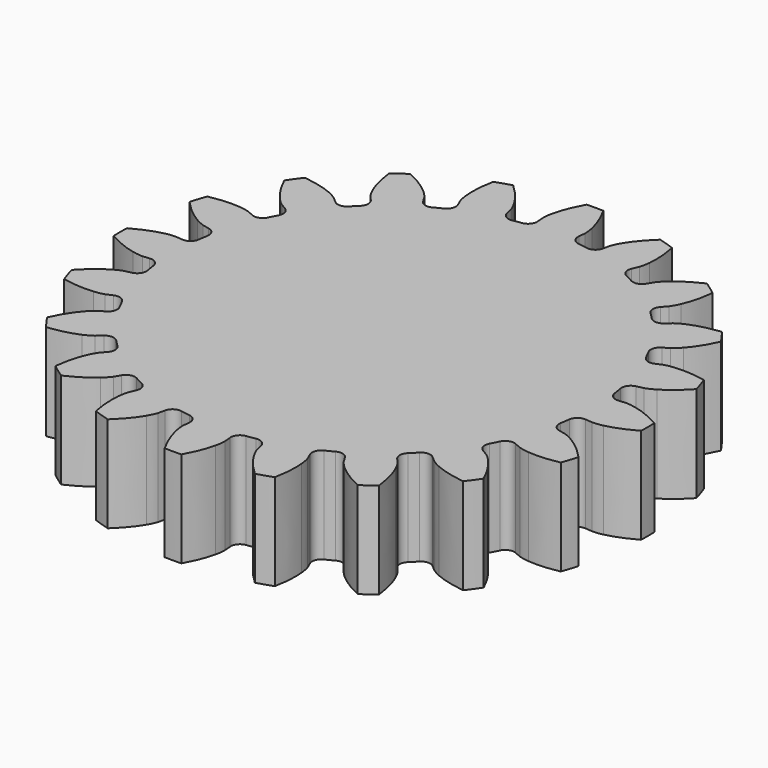
from build123d import *

# Parameters (mm, degrees)
PAD_DEPTH = 10


with BuildPart() as part:
    # InvoluteGear → Pad (new body)
    with BuildSketch(Plane.XY):
        with BuildLine():
            Line((22.725421, -2.129761), (23.434636, -2.194343))
            add(Edge.make_bspline(
                [(23.434636, -2.194343), (23.552721, -2.198117), (23.908158, -2.19505), (24.50119, -2.06665)],
                knots=[0, 0, 0, 0, 1, 1, 1, 1], degree=3))
            add(Edge.make_bspline(
                [(24.50119, -2.06665), (25.210586, -1.910694), (26.231456, -1.576838), (27.489054, -0.867419)],
                knots=[0, 0, 0, 0, 1, 1, 1, 1], degree=3))
            ThreePointArc((27.489054, -0.867419), (27.501369, 0.00054), (27.486284, 0.868456))
            add(Edge.make_bspline(
                [(27.486284, 0.868456), (26.231456, 1.576838), (25.210586, 1.910694), (24.50119, 2.06665)],
                knots=[0, 0, 0, 0, 1, 1, 1, 1], degree=3))
            add(Edge.make_bspline(
                [(24.50119, 2.06665), (23.908158, 2.19505), (23.552721, 2.198117), (23.434636, 2.194343)],
                knots=[0, 0, 0, 0, 1, 1, 1, 1], degree=3))
            Line((23.434636, 2.194343), (22.725421, 2.129761))
            ThreePointArc((22.725421, 2.129761), (22.034333, 2.323322), (21.675845, 2.945057))
            ThreePointArc((21.675845, 2.945057), (21.605682, 3.422004), (21.525026, 3.897289))
            ThreePointArc((21.525026, 3.897289), (21.673842, 4.599373), (22.271292, 4.997018))
            Line((22.271292, 4.997018), (22.965753, 5.154757))
            add(Edge.make_bspline(
                [(22.965753, 5.154757), (23.079224, 5.187658), (23.416317, 5.300411), (23.940647, 5.605783)],
                knots=[0, 0, 0, 0, 1, 1, 1, 1], degree=3))
            add(Edge.make_bspline(
                [(23.940647, 5.605783), (24.567129, 5.973321), (25.434867, 6.606304), (26.411691, 7.66962)],
                knots=[0, 0, 0, 0, 1, 1, 1, 1], degree=3))
            ThreePointArc((26.411691, 7.66962), (26.155189, 8.498904), (25.872642, 9.319679))
            add(Edge.make_bspline(
                [(25.872642, 9.319679), (24.460327, 9.605627), (23.386255, 9.607678), (22.663387, 9.536785)],
                knots=[0, 0, 0, 0, 1, 1, 1, 1], degree=3))
            add(Edge.make_bspline(
                [(22.663387, 9.536785), (22.059702, 9.475643), (21.720713, 9.368724), (21.609574, 9.328645)],
                knots=[0, 0, 0, 0, 1, 1, 1, 1], degree=3))
            Line((21.609574, 9.328645), (20.955027, 9.048064))
            ThreePointArc((20.955027, 9.048064), (20.23795, 9.018594), (19.704881, 9.49912))
            ThreePointArc((19.704881, 9.49912), (19.490768, 9.931042), (19.267188, 10.358141))
            ThreePointArc((19.267188, 10.358141), (19.191764, 11.071849), (19.637094, 11.634654))
            Line((19.637094, 11.634654), (20.248821, 11.999273))
            add(Edge.make_bspline(
                [(20.248821, 11.999273), (20.346572, 12.065628), (20.632324, 12.27703), (21.036626, 12.729483)],
                knots=[0, 0, 0, 0, 1, 1, 1, 1], degree=3))
            add(Edge.make_bspline(
                [(21.036626, 12.729483), (21.51887, 13.272627), (22.148536, 14.142774), (22.748967, 15.455904)],
                knots=[0, 0, 0, 0, 1, 1, 1, 1], degree=3))
            ThreePointArc((22.748967, 15.455904), (22.248757, 16.165336), (21.726405, 16.858627))
            add(Edge.make_bspline(
                [(21.726405, 16.858627), (20.294852, 16.694151), (19.272715, 16.364195), (18.607133, 16.073393)],
                knots=[0, 0, 0, 0, 1, 1, 1, 1], degree=3))
            add(Edge.make_bspline(
                [(18.607133, 16.073393), (18.051888, 15.828695), (17.762531, 15.622256), (17.669217, 15.549794)],
                knots=[0, 0, 0, 0, 1, 1, 1, 1], degree=3))
            Line((17.669217, 15.549794), (17.133409, 15.08068))
            ThreePointArc((17.133409, 15.08068), (16.460536, 14.831063), (15.805066, 15.123343))
            ThreePointArc((15.805066, 15.123343), (15.467961, 15.467961), (15.123343, 15.805066))
            ThreePointArc((15.123343, 15.805066), (14.831063, 16.460536), (15.08068, 17.133409))
            Line((15.08068, 17.133409), (15.549794, 17.669217))
            add(Edge.make_bspline(
                [(15.549794, 17.669217), (15.622256, 17.762531), (15.828695, 18.051888), (16.073393, 18.607133)],
                knots=[0, 0, 0, 0, 1, 1, 1, 1], degree=3))
            add(Edge.make_bspline(
                [(16.073393, 18.607133), (16.364195, 19.272715), (16.694151, 20.294852), (16.859417, 21.729256)],
                knots=[0, 0, 0, 0, 1, 1, 1, 1], degree=3))
            ThreePointArc((16.859417, 21.729256), (16.164462, 22.249392), (15.453437, 22.747336))
            add(Edge.make_bspline(
                [(15.453437, 22.747336), (14.142774, 22.148536), (13.272627, 21.51887), (12.729483, 21.036626)],
                knots=[0, 0, 0, 0, 1, 1, 1, 1], degree=3))
            add(Edge.make_bspline(
                [(12.729483, 21.036626), (12.27703, 20.632324), (12.065628, 20.346572), (11.999273, 20.248821)],
                knots=[0, 0, 0, 0, 1, 1, 1, 1], degree=3))
            Line((11.999273, 20.248821), (11.634654, 19.637094))
            ThreePointArc((11.634654, 19.637094), (11.071849, 19.191764), (10.358141, 19.267188))
            ThreePointArc((10.358141, 19.267188), (9.931042, 19.490768), (9.49912, 19.704881))
            ThreePointArc((9.49912, 19.704881), (9.018594, 20.23795), (9.048064, 20.955027))
            Line((9.048064, 20.955027), (9.328645, 21.609574))
            add(Edge.make_bspline(
                [(9.328645, 21.609574), (9.368724, 21.720713), (9.475643, 22.059702), (9.536785, 22.663387)],
                knots=[0, 0, 0, 0, 1, 1, 1, 1], degree=3))
            add(Edge.make_bspline(
                [(9.536785, 22.663387), (9.607678, 23.386255), (9.605627, 24.460327), (9.319549, 25.875596)],
                knots=[0, 0, 0, 0, 1, 1, 1, 1], degree=3))
            ThreePointArc((9.319549, 25.875596), (8.497876, 26.155523), (7.667778, 26.409377))
            add(Edge.make_bspline(
                [(7.667778, 26.409377), (6.606304, 25.434867), (5.973321, 24.567129), (5.605783, 23.940647)],
                knots=[0, 0, 0, 0, 1, 1, 1, 1], degree=3))
            add(Edge.make_bspline(
                [(5.605783, 23.940647), (5.300411, 23.416317), (5.187658, 23.079224), (5.154757, 22.965753)],
                knots=[0, 0, 0, 0, 1, 1, 1, 1], degree=3))
            Line((5.154757, 22.965753), (4.997018, 22.271292))
            ThreePointArc((4.997018, 22.271292), (4.599373, 21.673842), (3.897289, 21.525026))
            ThreePointArc((3.897289, 21.525026), (3.422004, 21.605682), (2.945057, 21.675845))
            ThreePointArc((2.945057, 21.675845), (2.323322, 22.034333), (2.129761, 22.725421))
            Line((2.129761, 22.725421), (2.194343, 23.434636))
            add(Edge.make_bspline(
                [(2.194343, 23.434636), (2.198117, 23.552721), (2.19505, 23.908158), (2.06665, 24.50119)],
                knots=[0, 0, 0, 0, 1, 1, 1, 1], degree=3))
            add(Edge.make_bspline(
                [(2.06665, 24.50119), (1.910694, 25.210586), (1.576838, 26.231456), (0.867419, 27.489054)],
                knots=[0, 0, 0, 0, 1, 1, 1, 1], degree=3))
            ThreePointArc((0.867419, 27.489054), (-0.00054, 27.501369), (-0.868456, 27.486284))
            add(Edge.make_bspline(
                [(-0.868456, 27.486284), (-1.576838, 26.231456), (-1.910694, 25.210586), (-2.06665, 24.50119)],
                knots=[0, 0, 0, 0, 1, 1, 1, 1], degree=3))
            add(Edge.make_bspline(
                [(-2.06665, 24.50119), (-2.19505, 23.908158), (-2.198117, 23.552721), (-2.194343, 23.434636)],
                knots=[0, 0, 0, 0, 1, 1, 1, 1], degree=3))
            Line((-2.194343, 23.434636), (-2.129761, 22.725421))
            ThreePointArc((-2.129761, 22.725421), (-2.323322, 22.034333), (-2.945057, 21.675845))
            ThreePointArc((-2.945057, 21.675845), (-3.422004, 21.605682), (-3.897289, 21.525026))
            ThreePointArc((-3.897289, 21.525026), (-4.599373, 21.673842), (-4.997018, 22.271292))
            Line((-4.997018, 22.271292), (-5.154757, 22.965753))
            add(Edge.make_bspline(
                [(-5.154757, 22.965753), (-5.187658, 23.079224), (-5.300411, 23.416317), (-5.605783, 23.940647)],
                knots=[0, 0, 0, 0, 1, 1, 1, 1], degree=3))
            add(Edge.make_bspline(
                [(-5.605783, 23.940647), (-5.973321, 24.567129), (-6.606304, 25.434867), (-7.66962, 26.411691)],
                knots=[0, 0, 0, 0, 1, 1, 1, 1], degree=3))
            ThreePointArc((-7.66962, 26.411691), (-8.498904, 26.155189), (-9.319679, 25.872642))
            add(Edge.make_bspline(
                [(-9.319679, 25.872642), (-9.605627, 24.460327), (-9.607678, 23.386255), (-9.536785, 22.663387)],
                knots=[0, 0, 0, 0, 1, 1, 1, 1], degree=3))
            add(Edge.make_bspline(
                [(-9.536785, 22.663387), (-9.475643, 22.059702), (-9.368724, 21.720713), (-9.328645, 21.609574)],
                knots=[0, 0, 0, 0, 1, 1, 1, 1], degree=3))
            Line((-9.328645, 21.609574), (-9.048064, 20.955027))
            ThreePointArc((-9.048064, 20.955027), (-9.018594, 20.23795), (-9.49912, 19.704881))
            ThreePointArc((-9.49912, 19.704881), (-9.931042, 19.490768), (-10.358141, 19.267188))
            ThreePointArc((-10.358141, 19.267188), (-11.071849, 19.191764), (-11.634654, 19.637094))
            Line((-11.634654, 19.637094), (-11.999273, 20.248821))
            add(Edge.make_bspline(
                [(-11.999273, 20.248821), (-12.065628, 20.346572), (-12.27703, 20.632324), (-12.729483, 21.036626)],
                knots=[0, 0, 0, 0, 1, 1, 1, 1], degree=3))
            add(Edge.make_bspline(
                [(-12.729483, 21.036626), (-13.272627, 21.51887), (-14.142774, 22.148536), (-15.455904, 22.748967)],
                knots=[0, 0, 0, 0, 1, 1, 1, 1], degree=3))
            ThreePointArc((-15.455904, 22.748967), (-16.165336, 22.248757), (-16.858627, 21.726405))
            add(Edge.make_bspline(
                [(-16.858627, 21.726405), (-16.694151, 20.294852), (-16.364195, 19.272715), (-16.073393, 18.607133)],
                knots=[0, 0, 0, 0, 1, 1, 1, 1], degree=3))
            add(Edge.make_bspline(
                [(-16.073393, 18.607133), (-15.828695, 18.051888), (-15.622256, 17.762531), (-15.549794, 17.669217)],
                knots=[0, 0, 0, 0, 1, 1, 1, 1], degree=3))
            Line((-15.549794, 17.669217), (-15.08068, 17.133409))
            ThreePointArc((-15.08068, 17.133409), (-14.831063, 16.460536), (-15.123343, 15.805066))
            ThreePointArc((-15.123343, 15.805066), (-15.467961, 15.467961), (-15.805066, 15.123343))
            ThreePointArc((-15.805066, 15.123343), (-16.460536, 14.831063), (-17.133409, 15.08068))
            Line((-17.133409, 15.08068), (-17.669217, 15.549794))
            add(Edge.make_bspline(
                [(-17.669217, 15.549794), (-17.762531, 15.622256), (-18.051888, 15.828695), (-18.607133, 16.073393)],
                knots=[0, 0, 0, 0, 1, 1, 1, 1], degree=3))
            add(Edge.make_bspline(
                [(-18.607133, 16.073393), (-19.272715, 16.364195), (-20.294852, 16.694151), (-21.729256, 16.859417)],
                knots=[0, 0, 0, 0, 1, 1, 1, 1], degree=3))
            ThreePointArc((-21.729256, 16.859417), (-22.249392, 16.164462), (-22.747336, 15.453437))
            add(Edge.make_bspline(
                [(-22.747336, 15.453437), (-22.148536, 14.142774), (-21.51887, 13.272627), (-21.036626, 12.729483)],
                knots=[0, 0, 0, 0, 1, 1, 1, 1], degree=3))
            add(Edge.make_bspline(
                [(-21.036626, 12.729483), (-20.632324, 12.27703), (-20.346572, 12.065628), (-20.248821, 11.999273)],
                knots=[0, 0, 0, 0, 1, 1, 1, 1], degree=3))
            Line((-20.248821, 11.999273), (-19.637094, 11.634654))
            ThreePointArc((-19.637094, 11.634654), (-19.191764, 11.071849), (-19.267188, 10.358141))
            ThreePointArc((-19.267188, 10.358141), (-19.490768, 9.931042), (-19.704881, 9.49912))
            ThreePointArc((-19.704881, 9.49912), (-20.23795, 9.018594), (-20.955027, 9.048064))
            Line((-20.955027, 9.048064), (-21.609574, 9.328645))
            add(Edge.make_bspline(
                [(-21.609574, 9.328645), (-21.720713, 9.368724), (-22.059702, 9.475643), (-22.663387, 9.536785)],
                knots=[0, 0, 0, 0, 1, 1, 1, 1], degree=3))
            add(Edge.make_bspline(
                [(-22.663387, 9.536785), (-23.386255, 9.607678), (-24.460327, 9.605627), (-25.875596, 9.319549)],
                knots=[0, 0, 0, 0, 1, 1, 1, 1], degree=3))
            ThreePointArc((-25.875596, 9.319549), (-26.155523, 8.497876), (-26.409377, 7.667778))
            add(Edge.make_bspline(
                [(-26.409377, 7.667778), (-25.434867, 6.606304), (-24.567129, 5.973321), (-23.940647, 5.605783)],
                knots=[0, 0, 0, 0, 1, 1, 1, 1], degree=3))
            add(Edge.make_bspline(
                [(-23.940647, 5.605783), (-23.416317, 5.300411), (-23.079224, 5.187658), (-22.965753, 5.154757)],
                knots=[0, 0, 0, 0, 1, 1, 1, 1], degree=3))
            Line((-22.965753, 5.154757), (-22.271292, 4.997018))
            ThreePointArc((-22.271292, 4.997018), (-21.673842, 4.599373), (-21.525026, 3.897289))
            ThreePointArc((-21.525026, 3.897289), (-21.605682, 3.422004), (-21.675845, 2.945057))
            ThreePointArc((-21.675845, 2.945057), (-22.034333, 2.323322), (-22.725421, 2.129761))
            Line((-22.725421, 2.129761), (-23.434636, 2.194343))
            add(Edge.make_bspline(
                [(-23.434636, 2.194343), (-23.552721, 2.198117), (-23.908158, 2.19505), (-24.50119, 2.06665)],
                knots=[0, 0, 0, 0, 1, 1, 1, 1], degree=3))
            add(Edge.make_bspline(
                [(-24.50119, 2.06665), (-25.210586, 1.910694), (-26.231456, 1.576838), (-27.489054, 0.867419)],
                knots=[0, 0, 0, 0, 1, 1, 1, 1], degree=3))
            ThreePointArc((-27.489054, 0.867419), (-27.501369, -0.00054), (-27.486284, -0.868456))
            add(Edge.make_bspline(
                [(-27.486284, -0.868456), (-26.231456, -1.576838), (-25.210586, -1.910694), (-24.50119, -2.06665)],
                knots=[0, 0, 0, 0, 1, 1, 1, 1], degree=3))
            add(Edge.make_bspline(
                [(-24.50119, -2.06665), (-23.908158, -2.19505), (-23.552721, -2.198117), (-23.434636, -2.194343)],
                knots=[0, 0, 0, 0, 1, 1, 1, 1], degree=3))
            Line((-23.434636, -2.194343), (-22.725421, -2.129761))
            ThreePointArc((-22.725421, -2.129761), (-22.034333, -2.323322), (-21.675845, -2.945057))
            ThreePointArc((-21.675845, -2.945057), (-21.605682, -3.422004), (-21.525026, -3.897289))
            ThreePointArc((-21.525026, -3.897289), (-21.673842, -4.599373), (-22.271292, -4.997018))
            Line((-22.271292, -4.997018), (-22.965753, -5.154757))
            add(Edge.make_bspline(
                [(-22.965753, -5.154757), (-23.079224, -5.187658), (-23.416317, -5.300411), (-23.940647, -5.605783)],
                knots=[0, 0, 0, 0, 1, 1, 1, 1], degree=3))
            add(Edge.make_bspline(
                [(-23.940647, -5.605783), (-24.567129, -5.973321), (-25.434867, -6.606304), (-26.411691, -7.66962)],
                knots=[0, 0, 0, 0, 1, 1, 1, 1], degree=3))
            ThreePointArc((-26.411691, -7.66962), (-26.155189, -8.498904), (-25.872642, -9.319679))
            add(Edge.make_bspline(
                [(-25.872642, -9.319679), (-24.460327, -9.605627), (-23.386255, -9.607678), (-22.663387, -9.536785)],
                knots=[0, 0, 0, 0, 1, 1, 1, 1], degree=3))
            add(Edge.make_bspline(
                [(-22.663387, -9.536785), (-22.059702, -9.475643), (-21.720713, -9.368724), (-21.609574, -9.328645)],
                knots=[0, 0, 0, 0, 1, 1, 1, 1], degree=3))
            Line((-21.609574, -9.328645), (-20.955027, -9.048064))
            ThreePointArc((-20.955027, -9.048064), (-20.23795, -9.018594), (-19.704881, -9.49912))
            ThreePointArc((-19.704881, -9.49912), (-19.490768, -9.931042), (-19.267188, -10.358141))
            ThreePointArc((-19.267188, -10.358141), (-19.191764, -11.071849), (-19.637094, -11.634654))
            Line((-19.637094, -11.634654), (-20.248821, -11.999273))
            add(Edge.make_bspline(
                [(-20.248821, -11.999273), (-20.346572, -12.065628), (-20.632324, -12.27703), (-21.036626, -12.729483)],
                knots=[0, 0, 0, 0, 1, 1, 1, 1], degree=3))
            add(Edge.make_bspline(
                [(-21.036626, -12.729483), (-21.51887, -13.272627), (-22.148536, -14.142774), (-22.748967, -15.455904)],
                knots=[0, 0, 0, 0, 1, 1, 1, 1], degree=3))
            ThreePointArc((-22.748967, -15.455904), (-22.248757, -16.165336), (-21.726405, -16.858627))
            add(Edge.make_bspline(
                [(-21.726405, -16.858627), (-20.294852, -16.694151), (-19.272715, -16.364195), (-18.607133, -16.073393)],
                knots=[0, 0, 0, 0, 1, 1, 1, 1], degree=3))
            add(Edge.make_bspline(
                [(-18.607133, -16.073393), (-18.051888, -15.828695), (-17.762531, -15.622256), (-17.669217, -15.549794)],
                knots=[0, 0, 0, 0, 1, 1, 1, 1], degree=3))
            Line((-17.669217, -15.549794), (-17.133409, -15.08068))
            ThreePointArc((-17.133409, -15.08068), (-16.460536, -14.831063), (-15.805066, -15.123343))
            ThreePointArc((-15.805066, -15.123343), (-15.467961, -15.467961), (-15.123343, -15.805066))
            ThreePointArc((-15.123343, -15.805066), (-14.831063, -16.460536), (-15.08068, -17.133409))
            Line((-15.08068, -17.133409), (-15.549794, -17.669217))
            add(Edge.make_bspline(
                [(-15.549794, -17.669217), (-15.622256, -17.762531), (-15.828695, -18.051888), (-16.073393, -18.607133)],
                knots=[0, 0, 0, 0, 1, 1, 1, 1], degree=3))
            add(Edge.make_bspline(
                [(-16.073393, -18.607133), (-16.364195, -19.272715), (-16.694151, -20.294852), (-16.859417, -21.729256)],
                knots=[0, 0, 0, 0, 1, 1, 1, 1], degree=3))
            ThreePointArc((-16.859417, -21.729256), (-16.164462, -22.249392), (-15.453437, -22.747336))
            add(Edge.make_bspline(
                [(-15.453437, -22.747336), (-14.142774, -22.148536), (-13.272627, -21.51887), (-12.729483, -21.036626)],
                knots=[0, 0, 0, 0, 1, 1, 1, 1], degree=3))
            add(Edge.make_bspline(
                [(-12.729483, -21.036626), (-12.27703, -20.632324), (-12.065628, -20.346572), (-11.999273, -20.248821)],
                knots=[0, 0, 0, 0, 1, 1, 1, 1], degree=3))
            Line((-11.999273, -20.248821), (-11.634654, -19.637094))
            ThreePointArc((-11.634654, -19.637094), (-11.071849, -19.191764), (-10.358141, -19.267188))
            ThreePointArc((-10.358141, -19.267188), (-9.931042, -19.490768), (-9.49912, -19.704881))
            ThreePointArc((-9.49912, -19.704881), (-9.018594, -20.23795), (-9.048064, -20.955027))
            Line((-9.048064, -20.955027), (-9.328645, -21.609574))
            add(Edge.make_bspline(
                [(-9.328645, -21.609574), (-9.368724, -21.720713), (-9.475643, -22.059702), (-9.536785, -22.663387)],
                knots=[0, 0, 0, 0, 1, 1, 1, 1], degree=3))
            add(Edge.make_bspline(
                [(-9.536785, -22.663387), (-9.607678, -23.386255), (-9.605627, -24.460327), (-9.319549, -25.875596)],
                knots=[0, 0, 0, 0, 1, 1, 1, 1], degree=3))
            ThreePointArc((-9.319549, -25.875596), (-8.497876, -26.155523), (-7.667778, -26.409377))
            add(Edge.make_bspline(
                [(-7.667778, -26.409377), (-6.606304, -25.434867), (-5.973321, -24.567129), (-5.605783, -23.940647)],
                knots=[0, 0, 0, 0, 1, 1, 1, 1], degree=3))
            add(Edge.make_bspline(
                [(-5.605783, -23.940647), (-5.300411, -23.416317), (-5.187658, -23.079224), (-5.154757, -22.965753)],
                knots=[0, 0, 0, 0, 1, 1, 1, 1], degree=3))
            Line((-5.154757, -22.965753), (-4.997018, -22.271292))
            ThreePointArc((-4.997018, -22.271292), (-4.599373, -21.673842), (-3.897289, -21.525026))
            ThreePointArc((-3.897289, -21.525026), (-3.422004, -21.605682), (-2.945057, -21.675845))
            ThreePointArc((-2.945057, -21.675845), (-2.323322, -22.034333), (-2.129761, -22.725421))
            Line((-2.129761, -22.725421), (-2.194343, -23.434636))
            add(Edge.make_bspline(
                [(-2.194343, -23.434636), (-2.198117, -23.552721), (-2.19505, -23.908158), (-2.06665, -24.50119)],
                knots=[0, 0, 0, 0, 1, 1, 1, 1], degree=3))
            add(Edge.make_bspline(
                [(-2.06665, -24.50119), (-1.910694, -25.210586), (-1.576838, -26.231456), (-0.867419, -27.489054)],
                knots=[0, 0, 0, 0, 1, 1, 1, 1], degree=3))
            ThreePointArc((-0.867419, -27.489054), (0.00054, -27.501369), (0.868456, -27.486284))
            add(Edge.make_bspline(
                [(0.868456, -27.486284), (1.576838, -26.231456), (1.910694, -25.210586), (2.06665, -24.50119)],
                knots=[0, 0, 0, 0, 1, 1, 1, 1], degree=3))
            add(Edge.make_bspline(
                [(2.06665, -24.50119), (2.19505, -23.908158), (2.198117, -23.552721), (2.194343, -23.434636)],
                knots=[0, 0, 0, 0, 1, 1, 1, 1], degree=3))
            Line((2.194343, -23.434636), (2.129761, -22.725421))
            ThreePointArc((2.129761, -22.725421), (2.323322, -22.034333), (2.945057, -21.675845))
            ThreePointArc((2.945057, -21.675845), (3.422004, -21.605682), (3.897289, -21.525026))
            ThreePointArc((3.897289, -21.525026), (4.599373, -21.673842), (4.997018, -22.271292))
            Line((4.997018, -22.271292), (5.154757, -22.965753))
            add(Edge.make_bspline(
                [(5.154757, -22.965753), (5.187658, -23.079224), (5.300411, -23.416317), (5.605783, -23.940647)],
                knots=[0, 0, 0, 0, 1, 1, 1, 1], degree=3))
            add(Edge.make_bspline(
                [(5.605783, -23.940647), (5.973321, -24.567129), (6.606304, -25.434867), (7.66962, -26.411691)],
                knots=[0, 0, 0, 0, 1, 1, 1, 1], degree=3))
            ThreePointArc((7.66962, -26.411691), (8.498904, -26.155189), (9.319679, -25.872642))
            add(Edge.make_bspline(
                [(9.319679, -25.872642), (9.605627, -24.460327), (9.607678, -23.386255), (9.536785, -22.663387)],
                knots=[0, 0, 0, 0, 1, 1, 1, 1], degree=3))
            add(Edge.make_bspline(
                [(9.536785, -22.663387), (9.475643, -22.059702), (9.368724, -21.720713), (9.328645, -21.609574)],
                knots=[0, 0, 0, 0, 1, 1, 1, 1], degree=3))
            Line((9.328645, -21.609574), (9.048064, -20.955027))
            ThreePointArc((9.048064, -20.955027), (9.018594, -20.23795), (9.49912, -19.704881))
            ThreePointArc((9.49912, -19.704881), (9.931042, -19.490768), (10.358141, -19.267188))
            ThreePointArc((10.358141, -19.267188), (11.071849, -19.191764), (11.634654, -19.637094))
            Line((11.634654, -19.637094), (11.999273, -20.248821))
            add(Edge.make_bspline(
                [(11.999273, -20.248821), (12.065628, -20.346572), (12.27703, -20.632324), (12.729483, -21.036626)],
                knots=[0, 0, 0, 0, 1, 1, 1, 1], degree=3))
            add(Edge.make_bspline(
                [(12.729483, -21.036626), (13.272627, -21.51887), (14.142774, -22.148536), (15.455904, -22.748967)],
                knots=[0, 0, 0, 0, 1, 1, 1, 1], degree=3))
            ThreePointArc((15.455904, -22.748967), (16.165336, -22.248757), (16.858627, -21.726405))
            add(Edge.make_bspline(
                [(16.858627, -21.726405), (16.694151, -20.294852), (16.364195, -19.272715), (16.073393, -18.607133)],
                knots=[0, 0, 0, 0, 1, 1, 1, 1], degree=3))
            add(Edge.make_bspline(
                [(16.073393, -18.607133), (15.828695, -18.051888), (15.622256, -17.762531), (15.549794, -17.669217)],
                knots=[0, 0, 0, 0, 1, 1, 1, 1], degree=3))
            Line((15.549794, -17.669217), (15.08068, -17.133409))
            ThreePointArc((15.08068, -17.133409), (14.831063, -16.460536), (15.123343, -15.805066))
            ThreePointArc((15.123343, -15.805066), (15.467961, -15.467961), (15.805066, -15.123343))
            ThreePointArc((15.805066, -15.123343), (16.460536, -14.831063), (17.133409, -15.08068))
            Line((17.133409, -15.08068), (17.669217, -15.549794))
            add(Edge.make_bspline(
                [(17.669217, -15.549794), (17.762531, -15.622256), (18.051888, -15.828695), (18.607133, -16.073393)],
                knots=[0, 0, 0, 0, 1, 1, 1, 1], degree=3))
            add(Edge.make_bspline(
                [(18.607133, -16.073393), (19.272715, -16.364195), (20.294852, -16.694151), (21.729256, -16.859417)],
                knots=[0, 0, 0, 0, 1, 1, 1, 1], degree=3))
            ThreePointArc((21.729256, -16.859417), (22.249392, -16.164462), (22.747336, -15.453437))
            add(Edge.make_bspline(
                [(22.747336, -15.453437), (22.148536, -14.142774), (21.51887, -13.272627), (21.036626, -12.729483)],
                knots=[0, 0, 0, 0, 1, 1, 1, 1], degree=3))
            add(Edge.make_bspline(
                [(21.036626, -12.729483), (20.632324, -12.27703), (20.346572, -12.065628), (20.248821, -11.999273)],
                knots=[0, 0, 0, 0, 1, 1, 1, 1], degree=3))
            Line((20.248821, -11.999273), (19.637094, -11.634654))
            ThreePointArc((19.637094, -11.634654), (19.191764, -11.071849), (19.267188, -10.358141))
            ThreePointArc((19.267188, -10.358141), (19.490768, -9.931042), (19.704881, -9.49912))
            ThreePointArc((19.704881, -9.49912), (20.23795, -9.018594), (20.955027, -9.048064))
            Line((20.955027, -9.048064), (21.609574, -9.328645))
            add(Edge.make_bspline(
                [(21.609574, -9.328645), (21.720713, -9.368724), (22.059702, -9.475643), (22.663387, -9.536785)],
                knots=[0, 0, 0, 0, 1, 1, 1, 1], degree=3))
            add(Edge.make_bspline(
                [(22.663387, -9.536785), (23.386255, -9.607678), (24.460327, -9.605627), (25.875596, -9.319549)],
                knots=[0, 0, 0, 0, 1, 1, 1, 1], degree=3))
            ThreePointArc((25.875596, -9.319549), (26.155523, -8.497876), (26.409377, -7.667778))
            add(Edge.make_bspline(
                [(26.409377, -7.667778), (25.434867, -6.606304), (24.567129, -5.973321), (23.940647, -5.605783)],
                knots=[0, 0, 0, 0, 1, 1, 1, 1], degree=3))
            add(Edge.make_bspline(
                [(23.940647, -5.605783), (23.416317, -5.300411), (23.079224, -5.187658), (22.965753, -5.154757)],
                knots=[0, 0, 0, 0, 1, 1, 1, 1], degree=3))
            Line((22.965753, -5.154757), (22.271292, -4.997018))
            ThreePointArc((22.271292, -4.997018), (21.673842, -4.599373), (21.525026, -3.897289))
            ThreePointArc((21.525026, -3.897289), (21.605682, -3.422004), (21.675845, -2.945057))
            ThreePointArc((21.675845, -2.945057), (22.034333, -2.323322), (22.725421, -2.129761))
        make_face()
    extrude(amount=PAD_DEPTH)


solid = part.part
